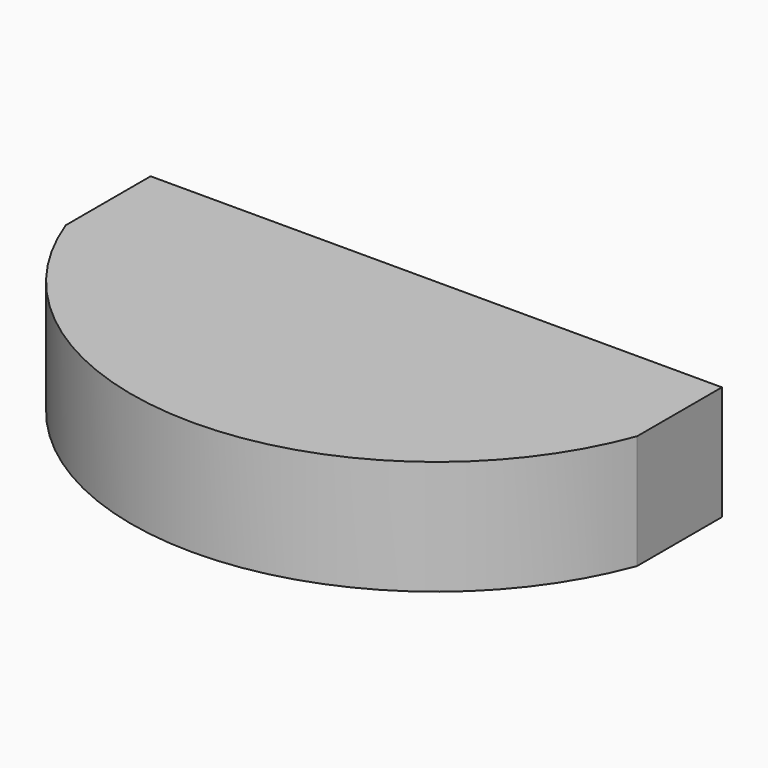
from build123d import *

# Parameters (mm, degrees)
F1_DEPTH = 30


with BuildPart() as f1:
    # F0 (on Top) → F1 (new body)
    with BuildSketch(Plane.XY):
        with BuildLine():
            Line((-75, 0), (-75, -27.838822))
            ThreePointArc((-75, -27.838822), (0, -80), (75, -27.838822))
            Line((75, -27.838822), (75, 0))
            Line((75, 0), (0, 0))
            Line((0, 0), (-75, 0))
        make_face()
    extrude(amount=F1_DEPTH)


solid = f1.part
